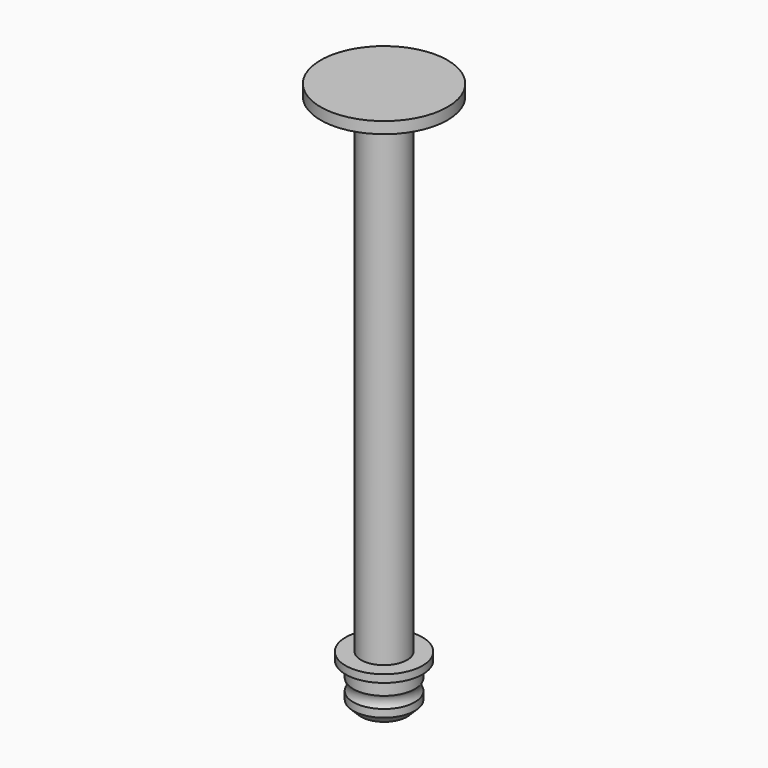
from build123d import *

# Parameters (mm, degrees)
F1_R     = 30
F1_R_2   = 25
F3_R     = 82.5
F4_DEPTH = 15


with BuildPart() as f2:
    # F2: sweep along a path in F0
    with BuildLine(Plane.YZ) as f2_path:
        Line((0, 0), (0, -50))
        Line((0, -50), (0, -650))
    # F1 (on Top) → F2 (sweep)
    with BuildSketch(Plane.XY):
        Circle(F1_R)
        Circle(F1_R_2, mode=Mode.SUBTRACT)
    sweep(path=f2_path.line)

    # F3 (on Top) → F4 (join)
    with BuildSketch(Plane.XY):
        Circle(F3_R)
    extrude(amount=-F4_DEPTH)

    # F5 (on Front) → F6 (revolve)
    with BuildSketch(Plane.XZ):
        with BuildLine():
            Line((50, -650), (35, -650))
            Line((35, -650), (30, -650))
            Line((30, -650), (20, -650))
            Line((20, -650), (20, -715))
            Line((20, -715), (30, -715))
            Line((30, -715), (40, -705))
            Line((40, -705), (40, -695))
            ThreePointArc((40, -695), (37.844933, -687.5), (40, -680))
            Line((40, -680), (40, -660))
            Line((40, -660), (50, -660))
            Line((50, -660), (50, -650))
        make_face()
    revolve(axis=Axis((0, 0, 0), (0, 0, -1)))


solid = f2.part
